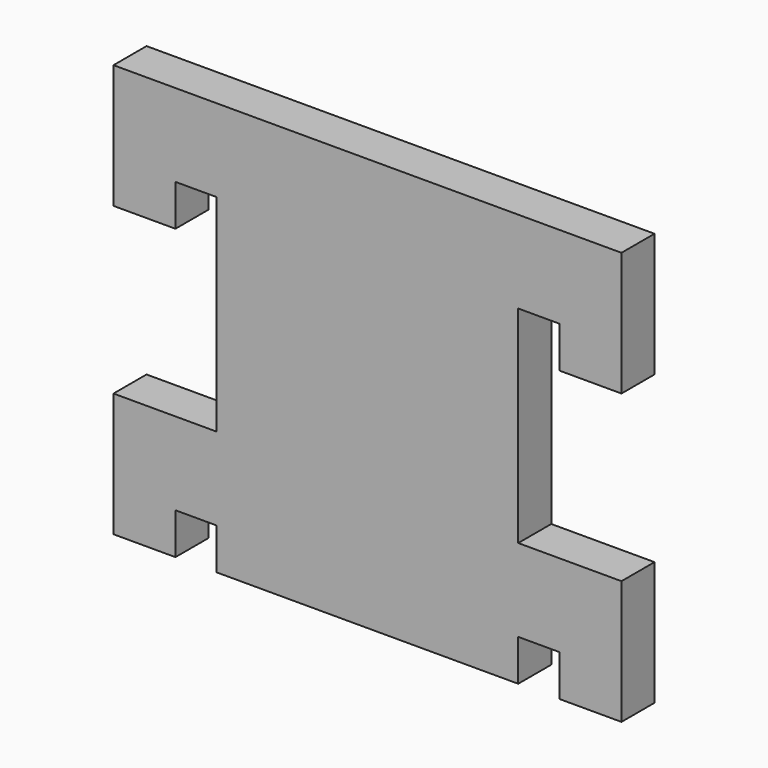
from build123d import *

# Parameters (mm, degrees)
F1_DEPTH = 25.4


with BuildPart() as f1:
    # F0 (on Front) → F1 (new body)
    with BuildSketch(Plane.XZ):
        Polygon((156.21, 127), (92.71, 127), (-92.71, 127), (-156.21, 127), (-156.21, 50.8), (-118.11, 50.8), (-118.11, 76.2), (-92.71, 76.2), (-92.71, -50.8), (-156.21, -50.8), (-156.21, -127), (-118.11, -127), (-118.11, -101.6), (-92.71, -101.6), (-92.71, -127), (92.71, -127), (92.71, -101.6), (118.11, -101.6), (118.11, -127), (156.21, -127), (156.21, -50.8), (92.71, -50.8), (92.71, 76.2), (118.11, 76.2), (118.11, 50.8), (156.21, 50.8), align=None)
    extrude(amount=F1_DEPTH)


solid = f1.part
